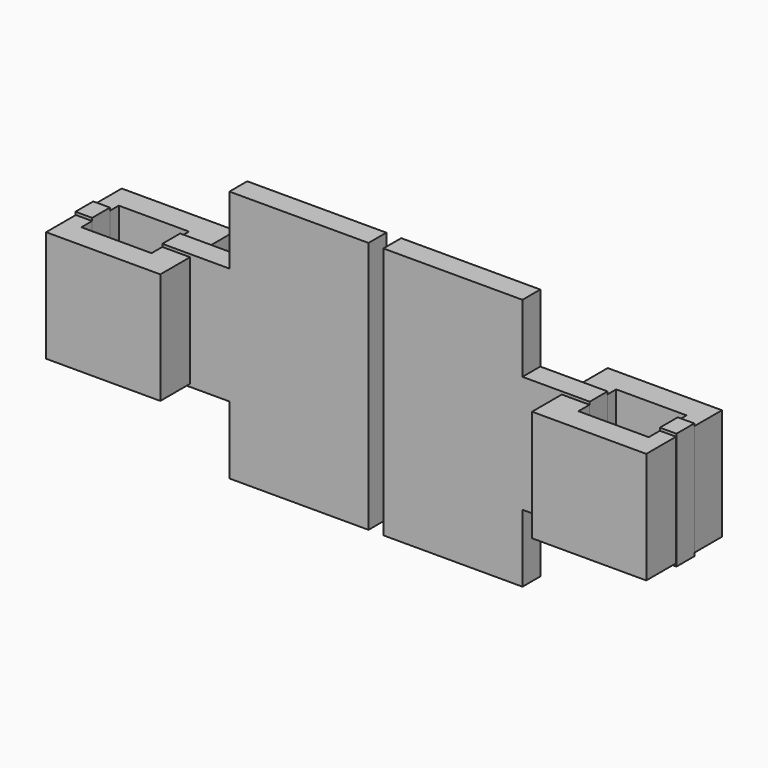
from build123d import *

# Parameters (mm, degrees)
F0_W      = 50.0962749696
F0_H      = 43.18
F2_DEPTH  = 3.81
F1_W      = 102.7450922131
F1_H      = 20
F3_DEPTH  = 3.81
F5_W      = 2.54
F5_H      = 43.18
F6_DEPTH  = 3.81
F7_W      = 19.5271223783
F7_H      = 16.1628960632
F8_DEPTH  = 9.525
F4_W      = 12
F4_H      = 8
F9_DEPTH  = 25.4
F11_W     = 11.9977556169
F11_H     = 7.9640262993
F12_DEPTH = 25.4


with BuildPart() as f2:
    # F0 (on Front) → F2 (new body)
    with BuildSketch(Plane.XZ):
        Rectangle(F0_W, F0_H)
        Rectangle(F0_W, F0_H)
    extrude(amount=F2_DEPTH)

    # F1 (on Front) → F3 (join)
    with BuildSketch(Plane.XZ):
        Rectangle(F1_W, F1_H)
    extrude(amount=F3_DEPTH)

    # F5 (on Front) → F6 (cut)
    with BuildSketch(Plane.XZ):
        Rectangle(F5_W, F5_H)
    extrude(amount=F6_DEPTH, mode=Mode.SUBTRACT)


with BuildPart() as f8:
    # F7 (on Top) → F8 (new body, symmetric)
    with BuildSketch(Plane.XY):
        with Locations((-41.53829813, -2.0870047156)):
            Rectangle(F7_W, F7_H)
    extrude(amount=F8_DEPTH, both=True)


with BuildPart() as f9_tool:
    # F4 (on Top) → F9 (new body, symmetric)
    with BuildSketch(Plane.XY):
        with Locations((-42.5182890683, -2.1125821513)):
            Rectangle(F4_W, F4_H)
    extrude(amount=F9_DEPTH, both=True)


with BuildPart() as f2_1:
    add(f2.part)

    # F9: cut by f9_tool
    add(f9_tool.part, mode=Mode.SUBTRACT)

    # F10: F8 across plane


with BuildPart() as f8_1:
    add(f8.part)

    # F9: cut by f9_tool
    add(f9_tool.part, mode=Mode.SUBTRACT)


with BuildPart() as f2_2:
    add(f2_1.part)
    add(f8_1.part.mirror(Plane.YZ))

    # F11 (on Top) → F12 (cut, symmetric)
    with BuildSketch(Plane.XY):
        with Locations((42.5440985709, -2.2076470195)):
            Rectangle(F11_W, F11_H)
    extrude(amount=F12_DEPTH, both=True, mode=Mode.SUBTRACT)


solid = Compound([f8_1.part, f2_2.part])
